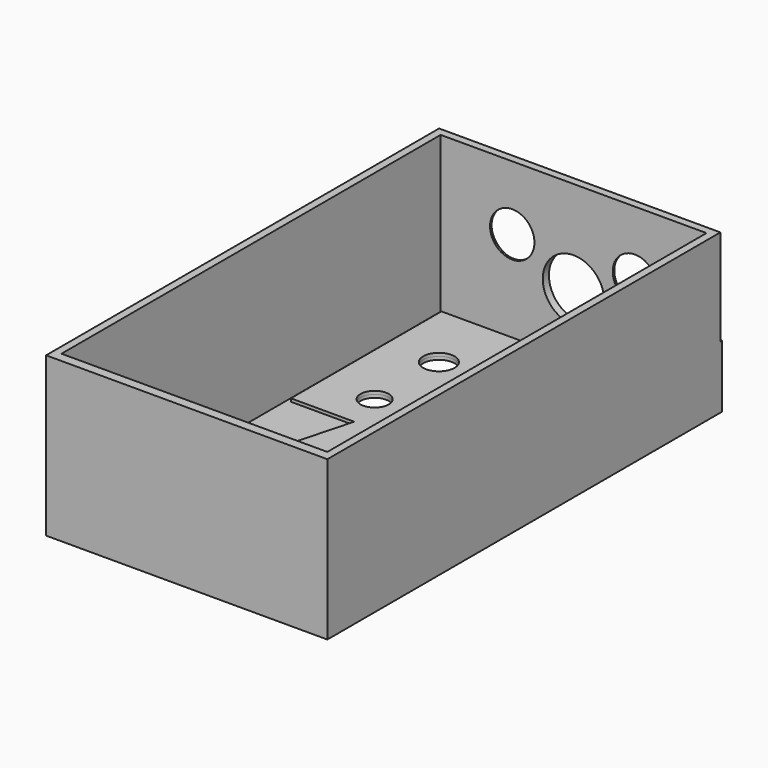
from build123d import *

# Parameters (mm, degrees)
F0_W          = 73
F0_H          = 128
F1_DEPTH      = 41.2
F5_W          = 69
F5_H          = 123
F6_DEPTH      = 40.4
F6_DEPTH_BACK = 25
F7_R          = 4.071875
F7_R_2        = 6.35
F7_R_3        = 3.675
F8_DEPTH      = 25
F10_R         = 8
F10_R_2       = 5.7625
F11_DEPTH     = 15
F12_W         = 69
F12_H         = 42.2
F13_DEPTH     = 25
F14_W         = 150
F14_H         = 28.2408671558
F15_DEPTH     = 15
F16_SIZE      = 1.5
F18_DEPTH     = 1
F19_R         = 6.35
F19_R_2       = 3.675
F19_R_3       = 4.071875
F20_DEPTH     = 0.8
F22_W         = 123.770698905
F22_H         = 146.9892412424
F23_DEPTH     = 25


with BuildPart() as f1:
    # F0 (on Top) → F1 (new body)
    with BuildSketch(Plane.XY):
        Rectangle(F0_W, F0_H)
    extrude(amount=F1_DEPTH)

    # F5 (on offset) → F6 (cut, two sides)
    with BuildSketch(Plane.XY.offset(41.2)) as f6_sk:
        Rectangle(F5_W, F5_H)
    extrude(amount=-F6_DEPTH, mode=Mode.SUBTRACT)
    extrude(f6_sk.sketch, amount=F6_DEPTH_BACK, mode=Mode.SUBTRACT)

    # F7 (on face) → F8 (cut)
    with BuildSketch(Plane.XY.offset(0.8)):
        with Locations((-20, 42.81)):
            Circle(F7_R)
        with Locations((0, 42.81)):
            Circle(F7_R)
        with Locations((20, 42.81)):
            Circle(F7_R)
        with Locations((0, -33.73)):
            Circle(F7_R_2)
        with Locations((0, 21.96)):
            Circle(F7_R_3)
        with Locations((-20, 21.96)):
            Circle(F7_R_3)
    extrude(amount=-F8_DEPTH, mode=Mode.SUBTRACT)

    # F10 (on offset) → F11 (cut, symmetric)
    with BuildSketch(Plane.XZ.offset(-63.5)):
        with Locations((0, 16.93)):
            Circle(F10_R)
        with Locations((15.92, 24.5)):
            Circle(F10_R_2)
        with Locations((-15.92, 24.5)):
            Circle(F10_R_2)
    extrude(amount=F11_DEPTH, both=True, mode=Mode.SUBTRACT)

    # F12 (on offset) → F13 (cut)
    with BuildSketch(Plane.XZ.offset(-63.5)):
        with Locations((0, 21.9)):
            Rectangle(F12_W, F12_H)
    extrude(amount=-F13_DEPTH, mode=Mode.SUBTRACT)

    # F14 (on face) → F15 (cut)
    with BuildSketch(Plane(origin=(0, 63.5, 0), x_dir=(-1, 0, 0), z_dir=(0, 1, 0))):
        with Locations((0, 30.3829335779)):
            Rectangle(F14_W, F14_H)
    extrude(amount=F15_DEPTH, mode=Mode.SUBTRACT)

    # F16
    f16_edges = [f1.edges().sort_by_distance(p)[0] for p in [
        (-21.6825, 63.5, 24.5),
        (10.1575, 63.5, 24.5),
    ]]
    chamfer(f16_edges, length=F16_SIZE)

    # F17 (on face) → F18 (join)
    with BuildSketch(Plane(origin=(0, 63.5, 0), x_dir=(-1, 0, 0), z_dir=(0, 1, 0))):
        Polygon((-15.92, 13.1207361072), (-19.42, 13.1207361072), (-15.92, 6.1207361072), (-12.42, 13.1207361072), align=None)
        Polygon((19.42, 6.1207361072), (15.92, 13.1207361072), (12.42, 6.1207361072), (15.92, 6.1207361072), align=None)
    extrude(amount=F18_DEPTH)

    # F22 (on offset) → F23 (cut)
    with BuildSketch(Plane.XY.offset(41.2)):
        Rectangle(F22_W, F22_H)
    extrude(amount=F23_DEPTH, mode=Mode.SUBTRACT)


with BuildPart() as f20:
    # F19 (on face) → F20 (new body)
    with BuildSketch(Plane.XY.offset(0.8)):
        Polygon((33.5, 60.5), (-33.5, 60.5), (-33.5, 11.6581510395), (-17.0547928976, 11.6581510395), (-33.0930194505, -48.1973253191), (2.2994191386, -48.1973253191), (2.2994191386, -60.5), (17.1271677811, -60.5), (33.5, 0.6042417049), align=None)
        with Locations((0, -33.73)):
            Circle(F19_R, mode=Mode.SUBTRACT)
        with Locations((-20, 21.96)):
            Circle(F19_R_2, mode=Mode.SUBTRACT)
        with Locations((-20, 42.81)):
            Circle(F19_R_3, mode=Mode.SUBTRACT)
        with BuildLine():
            add(Edge.make_bspline(
                [(15.6051348895, 32.924618572), (12.9311973769, 32.9050587052), (8.1583206922, 34.4835221549), (10.5852890567, 15.1915361969), (2.2898659208, 10.0419387571), (-7.5230777911, -12.2370271299), (-6.4240600023, -21.293346284), (12.0416133573, -26.7494270075), (15.7498028651, 0.5879200412), (19.9682486356, 13.6247891199), (27.2742905516, 18.8212467612), (31.515846332, 35.761894196), (19.6221877874, 32.9540033349), (15.6051348895, 32.924618572)],
                knots=[0, 0, 0, 0, 0.0595949261, 0.1582299364, 0.240036439, 0.3633140055, 0.435238949, 0.5258654022, 0.6499418852, 0.7456055856, 0.8223737071, 0.9104706188, 1, 1, 1, 1], degree=3))
        make_face(mode=Mode.SUBTRACT)
        with Locations((0, 21.96)):
            Circle(F19_R_2, mode=Mode.SUBTRACT)
        with Locations((0, 42.81)):
            Circle(F19_R_3, mode=Mode.SUBTRACT)
        with Locations((20, 42.81)):
            Circle(F19_R_3, mode=Mode.SUBTRACT)
    extrude(amount=F20_DEPTH)


solid = Compound([f1.part, f20.part])
